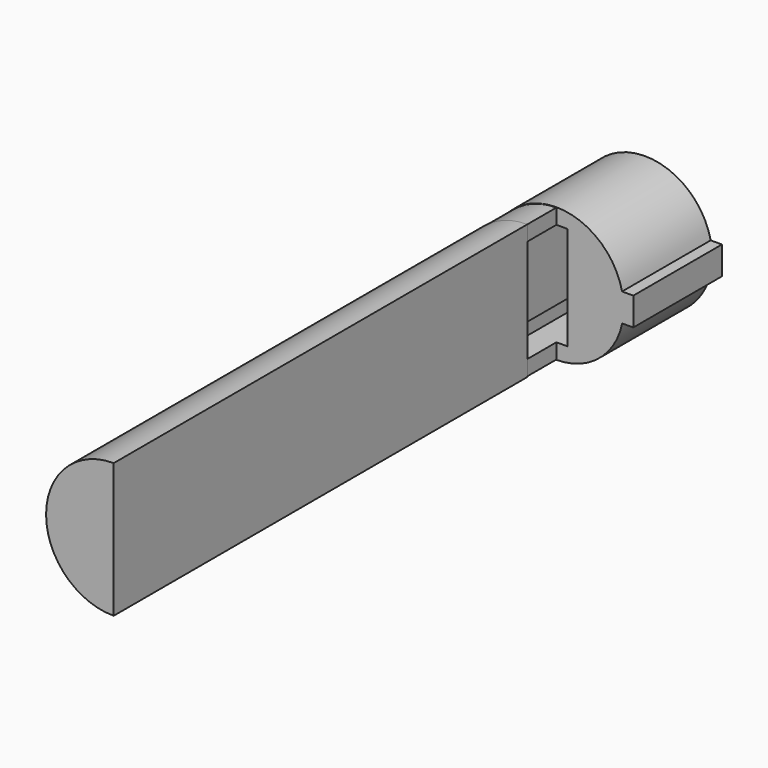
from build123d import *

# Parameters (mm, degrees)
PAD_DEPTH    = 15
POCKET_DEPTH = 13
PAD001_DEPTH = 5
PAD002_DEPTH = 70


with BuildPart() as part:
    # Sketch → Pad (new body)
    with BuildSketch(Plane.XZ):
        with BuildLine():
            ThreePointArc((8.889624, 1.945402), (-9.099882, -0.046426), (8.90901, -1.854598))
            Line((10.40901, -1.854598), (8.90901, -1.854598))
            Line((10.40901, 1.945402), (10.40901, -1.854598))
            Line((8.889624, 1.945402), (10.40901, 1.945402))
        make_face()
    extrude(amount=PAD_DEPTH)

    # Sketch001 (on Face6 of Pad) → Pocket (cut)
    with BuildSketch(Plane.XZ.offset(15)):
        Polygon((-1.5, 7), (1.5, 7), (1.5, -7), (-3.348355, -7), (-3.348355, -3.808815), (-1.5, -3.808815), align=None)
    extrude(amount=-POCKET_DEPTH, mode=Mode.SUBTRACT)

    # Sketch002 (on Face5 of Pocket) → Pad001 (join)
    with BuildSketch(Plane.XZ.offset(15)):
        with BuildLine():
            Line((0, 7), (-1.5, 7))
            Line((-1.5, 7), (-1.5, -3.808815))
            Line((-1.5, -3.808815), (-3.348355, -3.808815))
            Line((-3.348355, -3.808815), (-3.348355, -7))
            Line((-3.348355, -7), (0, -7))
            Line((0, -7), (0, -9.054887))
            ThreePointArc((0, 9.054887), (-9.054887, 0), (0, -9.054887))
            Line((0, 7), (0, 9.054887))
        make_face()
    extrude(amount=PAD001_DEPTH)

    # Sketch003 (on Face14 of Pad001) → Pad002 (join)
    with BuildSketch(Plane.XZ.offset(20)):
        with BuildLine():
            ThreePointArc((0.053764, 9.099841), (-9.1, 0), (0.053764, -9.099841))
            Line((0.053764, 9.099841), (0.053764, -9.099841))
        make_face()
    extrude(amount=PAD002_DEPTH)


solid = part.part
